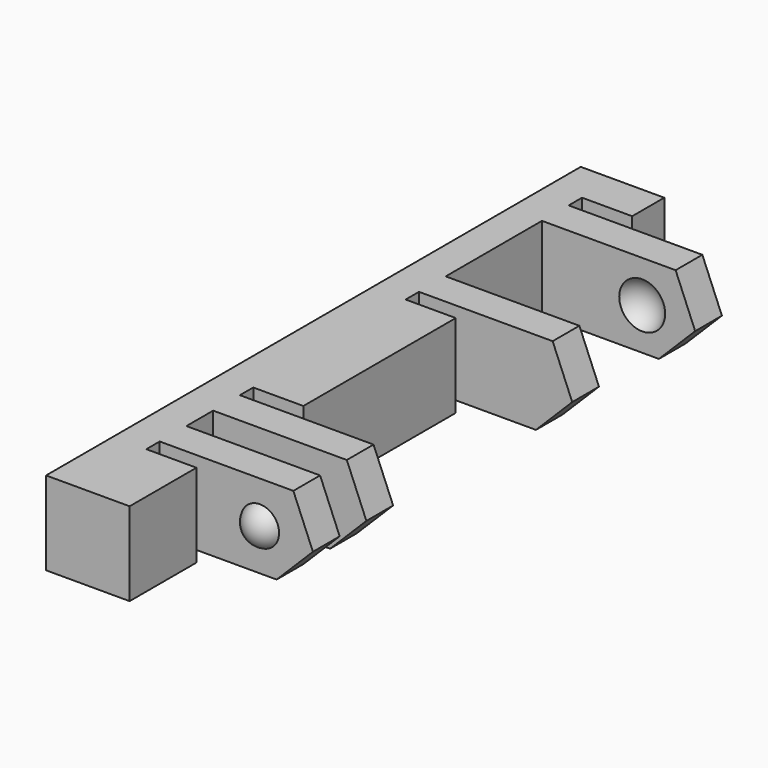
from build123d import *

# Parameters (mm, degrees)
BOX032_W               = 12
BOX032_H               = 44
BOX032_DEPTH           = 10
BOX027_W               = 4
BOX027_H               = 1
BOX027_DEPTH           = 7
BOX035_W               = 4
BOX035_H               = 1
BOX035_DEPTH           = 7
BOX036_W               = 4
BOX036_H               = 2
BOX036_DEPTH           = 7
BOX038_W               = 4
BOX038_H               = 1
BOX038_DEPTH           = 7
BOX030_W               = 4
BOX030_H               = 1
BOX030_DEPTH           = 7
BOX029_W               = 4
BOX029_H               = 7.2
BOX029_DEPTH           = 7
BOX028_W               = 13
BOX028_H               = 40
BOX028_DEPTH           = 10
BOX028_PLACEMENT_ANGLE = 45
BOX031_W               = 10
BOX031_H               = 2
BOX031_DEPTH           = 7
BOX034_W               = 10
BOX034_H               = 2
BOX034_DEPTH           = 7
BOX033_W               = 10
BOX033_H               = 2
BOX033_DEPTH           = 7
BOX037_W               = 10
BOX037_H               = 2
BOX037_DEPTH           = 7
BOX039_W               = 5
BOX039_H               = 40
BOX039_DEPTH           = 7
CHAMFER003_SIZE        = 4
CUT010_PLACEMENT_ANGLE = 180
CUT009_PLACEMENT_ANGLE = 180


with BuildPart() as cube032:
    # Box032 → Box032 (new body)
    with BuildSketch(Plane(origin=(-11, -2, -12), x_dir=(1, 0, 0), z_dir=(0, 0, 1))):
        with Locations((6, 22)):
            Rectangle(BOX032_W, BOX032_H)
    extrude(amount=BOX032_DEPTH)


with BuildPart() as cube027:
    # Box027 → Box027 (new body)
    with BuildSketch(Plane(origin=(-1, 12, 0), x_dir=(1, 0, 0), z_dir=(0, 0, 1))):
        with Locations((2, 0.5)):
            Rectangle(BOX027_W, BOX027_H)
    extrude(amount=BOX027_DEPTH)


with BuildPart() as cube035:
    # Box035 → Box035 (new body)
    with BuildSketch(Plane(origin=(-1, 36.6, 0), x_dir=(1, 0, 0), z_dir=(0, 0, 1))):
        with Locations((2, 0.5)):
            Rectangle(BOX035_W, BOX035_H)
    extrude(amount=BOX035_DEPTH)


with BuildPart() as cube036:
    # Box036 → Box036 (new body)
    with BuildSketch(Plane(origin=(-1, 8, 0), x_dir=(1, 0, 0), z_dir=(0, 0, 1))):
        with Locations((2, 1)):
            Rectangle(BOX036_W, BOX036_H)
    extrude(amount=BOX036_DEPTH)


with BuildPart() as cube038:
    # Box038 → Box038 (new body)
    with BuildSketch(Plane(origin=(-1, 24.4, 0), x_dir=(1, 0, 0), z_dir=(0, 0, 1))):
        with Locations((2, 0.5)):
            Rectangle(BOX038_W, BOX038_H)
    extrude(amount=BOX038_DEPTH)


with BuildPart() as cube030:
    # Box030 → Box030 (new body)
    with BuildSketch(Plane(origin=(-1, 5, 0), x_dir=(1, 0, 0), z_dir=(0, 0, 1))):
        with Locations((2, 0.5)):
            Rectangle(BOX030_W, BOX030_H)
    extrude(amount=BOX030_DEPTH)


with BuildPart() as fusion009:
    # Box029 → Box029 (new body)
    with BuildSketch(Plane(origin=(-1, 27.4, 0), x_dir=(1, 0, 0), z_dir=(0, 0, 1))):
        with Locations((2, 3.6)):
            Rectangle(BOX029_W, BOX029_H)
    extrude(amount=BOX029_DEPTH)

    # Fusion009: union Cube027, Cube035, Cube036, Cube038, Cube030
    add(cube027.part)
    add(cube035.part)
    add(cube036.part)
    add(cube038.part)
    add(cube030.part)


with BuildPart() as sphere017:
    # Sphere017 → Sphere017 (revolve)
    with BuildSketch(Plane(origin=(-3, 28, 2.5), x_dir=(1, 0, 0), z_dir=(0, -1, 0))):
        with BuildLine():
            ThreePointArc((0, -1.5), (1.5, 0), (0, 1.5))
            Line((0, 1.5), (0, -1.5))
        make_face()
    revolve(axis=Axis((-3, 28, 2.5), (0, 0, 1)))


with BuildPart() as fusion011:
    # Sphere019 → Sphere019 (revolve)
    with BuildSketch(Plane(origin=(-3, 34, 2.5), x_dir=(1, 0, 0), z_dir=(0, -1, 0))):
        with BuildLine():
            ThreePointArc((0, -1.5), (1.5, 0), (0, 1.5))
            Line((0, 1.5), (0, -1.5))
        make_face()
    revolve(axis=Axis((-3, 34, 2.5), (0, 0, 1)))

    # Fusion011: union Sphere017
    add(sphere017.part)


with BuildPart() as sphere018:
    # Sphere018 → Sphere018 (revolve)
    with BuildSketch(Plane(origin=(-3, 11.5, 2.5), x_dir=(1, 0, 0), z_dir=(0, -1, 0))):
        with BuildLine():
            ThreePointArc((0, -1.25), (1.25, 0), (0, 1.25))
            Line((0, 1.25), (0, -1.25))
        make_face()
    revolve(axis=Axis((-3, 11.5, 2.5), (0, 0, 1)))


with BuildPart() as cube028:
    # Box028 → Box028 (new body)
    with BuildSketch(Plane.XY):
        with Locations((6.5, 20)):
            Rectangle(BOX028_W, BOX028_H)
    extrude(amount=BOX028_DEPTH)


with BuildPart() as cube028_1:
    # Box028 placement: moved
    add(cube028.part.moved(Location((-10.19, 0, -1.19))).rotate(Axis((-10.19, 0, -1.19), (0, -1, 0)), BOX028_PLACEMENT_ANGLE))


with BuildPart() as cube031:
    # Box031 → Box031 (new body)
    with BuildSketch(Plane(origin=(-10, 6, 0), x_dir=(1, 0, 0), z_dir=(0, 0, 1))):
        with Locations((5, 1)):
            Rectangle(BOX031_W, BOX031_H)
    extrude(amount=BOX031_DEPTH)


with BuildPart() as cube034:
    # Box034 → Box034 (new body)
    with BuildSketch(Plane(origin=(-10, 10, 0), x_dir=(1, 0, 0), z_dir=(0, 0, 1))):
        with Locations((5, 1)):
            Rectangle(BOX034_W, BOX034_H)
    extrude(amount=BOX034_DEPTH)


with BuildPart() as cube033:
    # Box033 → Box033 (new body)
    with BuildSketch(Plane(origin=(-10, 25.4, 0), x_dir=(1, 0, 0), z_dir=(0, 0, 1))):
        with Locations((5, 1)):
            Rectangle(BOX033_W, BOX033_H)
    extrude(amount=BOX033_DEPTH)


with BuildPart() as cube037:
    # Box037 → Box037 (new body)
    with BuildSketch(Plane(origin=(-10, 34.6, 0), x_dir=(1, 0, 0), z_dir=(0, 0, 1))):
        with Locations((5, 1)):
            Rectangle(BOX037_W, BOX037_H)
    extrude(amount=BOX037_DEPTH)


with BuildPart() as cut011:
    # Box039 → Box039 (new body)
    with BuildSketch(Plane.XY):
        with Locations((2.5, 20)):
            Rectangle(BOX039_W, BOX039_H)
    extrude(amount=BOX039_DEPTH)

    # Fusion012: union Cube031, Cube034, Cube033, Cube037
    add(cube031.part)
    add(cube034.part)
    add(cube033.part)
    add(cube037.part)

    # Cut011: cut Cube028
    add(cube028_1.part, mode=Mode.SUBTRACT)


with BuildPart() as cut009:
    # Sphere016 → Sphere016 (revolve)
    with BuildSketch(Plane(origin=(-3, 6.5, 2.5), x_dir=(1, 0, 0), z_dir=(0, -1, 0))):
        with BuildLine():
            ThreePointArc((0, -1.25), (1.25, 0), (0, 1.25))
            Line((0, 1.25), (0, -1.25))
        make_face()
    revolve(axis=Axis((-3, 6.5, 2.5), (0, 0, 1)))

    # Fusion010: union Sphere018, Cut011
    add(sphere018.part)
    add(cut011.part)

    # Cut012: cut Fusion011
    add(fusion011.part, mode=Mode.SUBTRACT)

    # Chamfer003
    chamfer003_edges = [cut009.edges().sort_by_distance(p)[0] for p in [
        (-9, 7, 0),
        (-9, 11, 0),
        (-9, 35.6, 0),
        (-9, 26.4, 0),
    ]]
    chamfer(chamfer003_edges, length=CHAMFER003_SIZE)

    # Cut010: cut Fusion009
    add(fusion009.part, mode=Mode.SUBTRACT)


with BuildPart() as cut009_1:
    # Cut010 placement: moved
    add(cut009.part.moved(Location((-5, 40, 3))).rotate(Axis((-5, 40, 3), (1, 0, 0)), CUT010_PLACEMENT_ANGLE))

    # Cut009: cut Cube032
    add(cube032.part, mode=Mode.SUBTRACT)


with BuildPart() as cut009_2:
    # Cut009 placement: moved
    add(cut009_1.part.moved(Location((40, 40, 0))).rotate(Axis((40, 40, 0), (0, 0, 1)), CUT009_PLACEMENT_ANGLE))


solid = cut009_2.part
